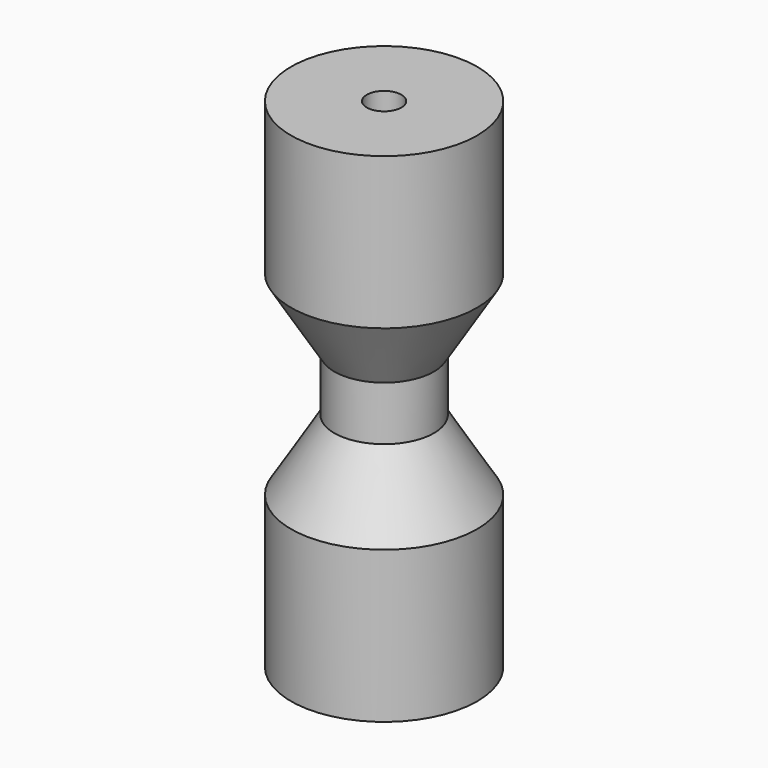
from build123d import *


with BuildPart() as part:
    # Sketch → Revolution (revolve)
    with BuildSketch(Plane.XZ):
        Polygon((1.6, 0), (1.6, 23), (8.6, 23), (8.6, 9), (4.6, 2.5), (4.6, 0), (4.6, -2.5), (8.6, -9), (8.6, -23), (1.6, -23), align=None)
    revolve(axis=Axis((0, 0, 0), (0, 0, 1)))


solid = part.part
